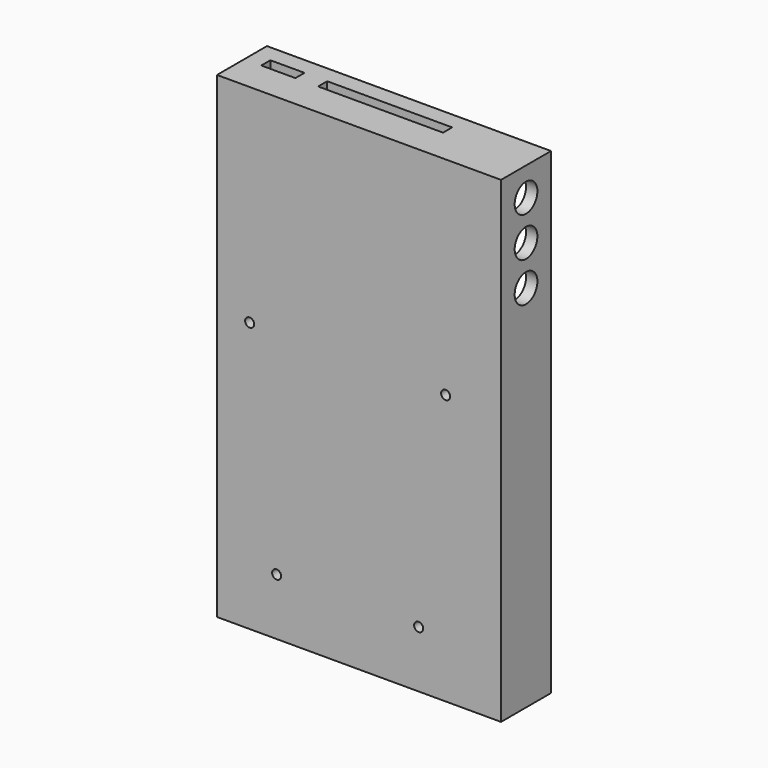
from build123d import *

# Parameters (mm, degrees)
PAD_DEPTH       = 2
PAD001_DEPTH    = 9
PAD002_DEPTH    = 11
SKETCH005_R     = 2.5
PAD003_DEPTH    = 4.5
SKETCH006_R     = 1.5
PAD004_DEPTH    = 7
SKETCH007_W     = 22
SKETCH007_H     = 2
SKETCH007_W_2   = 6
POCKET_DEPTH    = 5
SKETCH008_R     = 2.5
POCKET001_DEPTH = 5
SKETCH009_R     = 0.8
HOLE_DEPTH      = 1.5
HOLE_TIPS_R     = 0.8


with BuildPart() as part:
    # Sketch002 → Pad (new body)
    with BuildSketch(Plane(origin=(0, 1, 0), x_dir=(-1, 0, 0), z_dir=(0, 1, 0))):
        Polygon((-44, -64), (2, -64), (2, 20), (-44, 20), (-48, 20), (-48, -64), align=None)
    extrude(amount=PAD_DEPTH)

    # Sketch003 → Pad001 (join)
    with BuildSketch(Plane(origin=(0, 1, 0), x_dir=(-1, 0, 0), z_dir=(0, 1, 0))):
        Polygon((-44, -64), (2, -64), (2, 20), (-44, 20), (-48, 20), (-48, -64), align=None)
        Polygon((-42, -62), (0, -62), (0, 18), (-42, 18), (-46, 18), (-46, -62), align=None, mode=Mode.SUBTRACT)
    extrude(amount=PAD001_DEPTH)

    # Sketch004 → Pad002 (join)
    with BuildSketch(Plane(origin=(0, 1, 0), x_dir=(-1, 0, 0), z_dir=(0, 1, 0))):
        Polygon((-44, -64), (2, -64), (2, 20), (-44, 20), (-48, 20), (-48, -64), align=None)
        Polygon((-43, -63), (1, -63), (1, 19), (-43, 19), (-47, 19), (-47, -63), align=None, mode=Mode.SUBTRACT)
    extrude(amount=PAD002_DEPTH)

    # Sketch005 → Pad003 (join)
    with BuildSketch(Plane(origin=(0, 1, 0), x_dir=(-1, 0, 0), z_dir=(0, 1, 0))):
        with Locations((-38.250001, -16.5)):
            Circle(SKETCH005_R)
        with Locations((-3.75, -16.5)):
            Circle(SKETCH005_R)
        with Locations((-33.499998, -54)):
            Circle(SKETCH005_R)
        with Locations((-8.499999, -53.999999)):
            Circle(SKETCH005_R)
    extrude(amount=PAD003_DEPTH)

    # Sketch006 → Pad004 (join)
    with BuildSketch(Plane(origin=(0, 1, 0), x_dir=(-1, 0, 0), z_dir=(0, 1, 0))):
        with Locations((-3.75, -16.5)):
            Circle(SKETCH006_R)
        with Locations((-38.250001, -16.5)):
            Circle(SKETCH006_R)
        with Locations((-8.499999, -53.999999)):
            Circle(SKETCH006_R)
        with Locations((-33.499998, -54)):
            Circle(SKETCH006_R)
    extrude(amount=PAD004_DEPTH)

    # Sketch007 (on Face15 of Pad004) → Pocket (cut)
    with BuildSketch(Plane(origin=(0, 1, 20), x_dir=(1, 0, 0), z_dir=(0, 0, 1))):
        with Locations((22, 7)):
            Rectangle(SKETCH007_W, SKETCH007_H)
        with Locations((4, 7)):
            Rectangle(SKETCH007_W_2, SKETCH007_H)
    extrude(amount=-POCKET_DEPTH, mode=Mode.SUBTRACT)

    # Sketch008 (on Face13 of Pocket) → Pocket001 (cut, symmetric)
    with BuildSketch(Plane(origin=(48, 1, 0), x_dir=(0, 0, -1), z_dir=(1, 0, 0))):
        with Locations((-15, 5.5)):
            Circle(SKETCH008_R)
        with Locations((-8, 5.5)):
            Circle(SKETCH008_R)
        with Locations((-1, 5.5)):
            Circle(SKETCH008_R)
    extrude(amount=POCKET001_DEPTH, both=True, mode=Mode.SUBTRACT)

    # Sketch009 (on Face18 of Pocket001) → Hole (cut)
    with BuildSketch(Plane(origin=(0, 1, 0), x_dir=(-1, 0, 0), z_dir=(0, -1, 0))):
        with Locations((-33.499998, 54)):
            Circle(SKETCH009_R)
        with Locations((-8.499999, 53.999999)):
            Circle(SKETCH009_R)
        with Locations((-38.250001, 16.5)):
            Circle(SKETCH009_R)
        with Locations((-3.75, 16.5)):
            Circle(SKETCH009_R)
    extrude(amount=-HOLE_DEPTH, mode=Mode.SUBTRACT)

    # Hole tips → Hole tip 1 section 0
    with BuildSketch(Plane(origin=(0, 2.5, 0), x_dir=(-1, 0, 0), z_dir=(0, -1, 0)), mode=Mode.PRIVATE) as hole_tip_1_s0:
        with Locations((-33.499998, 54)):
            Circle(HOLE_TIPS_R)
    loft([hole_tip_1_s0.sketch, Vertex(33.499998, 2.980688, -54)], mode=Mode.SUBTRACT)

    # Hole tips → Hole tip 2 section 0
    with BuildSketch(Plane(origin=(0, 2.5, 0), x_dir=(-1, 0, 0), z_dir=(0, -1, 0)), mode=Mode.PRIVATE) as hole_tip_2_s0:
        with Locations((-8.499999, 53.999999)):
            Circle(HOLE_TIPS_R)
    loft([hole_tip_2_s0.sketch, Vertex(8.499999, 2.980688, -53.999999)], mode=Mode.SUBTRACT)

    # Hole tips → Hole tip 3 section 0
    with BuildSketch(Plane(origin=(0, 2.5, 0), x_dir=(-1, 0, 0), z_dir=(0, -1, 0)), mode=Mode.PRIVATE) as hole_tip_3_s0:
        with Locations((-38.250001, 16.5)):
            Circle(HOLE_TIPS_R)
    loft([hole_tip_3_s0.sketch, Vertex(38.250001, 2.980688, -16.5)], mode=Mode.SUBTRACT)

    # Hole tips → Hole tip 4 section 0
    with BuildSketch(Plane(origin=(0, 2.5, 0), x_dir=(-1, 0, 0), z_dir=(0, -1, 0)), mode=Mode.PRIVATE) as hole_tip_4_s0:
        with Locations((-3.75, 16.5)):
            Circle(HOLE_TIPS_R)
    loft([hole_tip_4_s0.sketch, Vertex(3.75, 2.980688, -16.5)], mode=Mode.SUBTRACT)


solid = part.part
